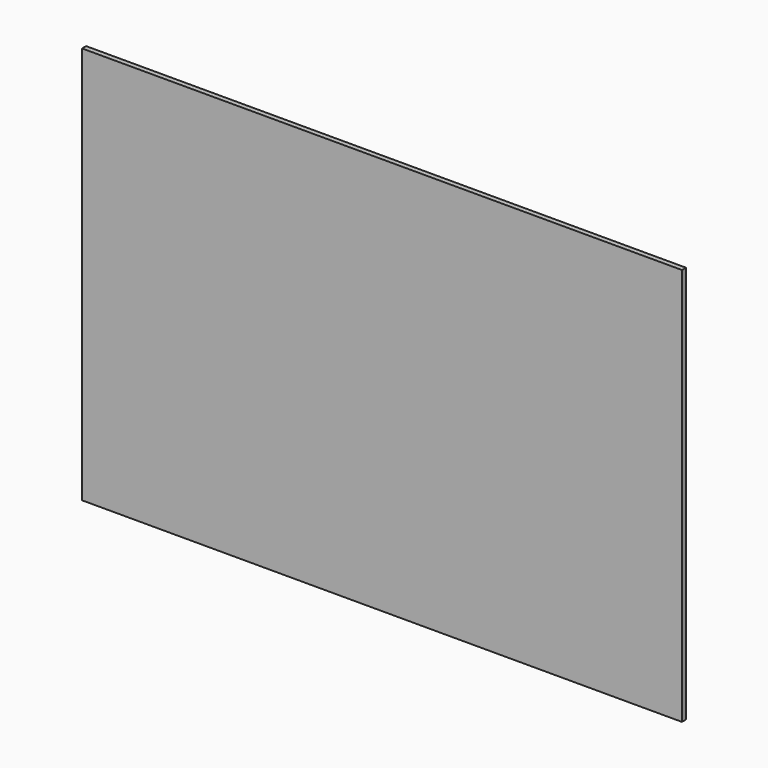
from build123d import *

# Parameters (mm, degrees)
SKETCH_W  = 475
SKETCH_H  = 315
PAD_DEPTH = 4


with BuildPart() as part:
    # Sketch → Pad (new body)
    with BuildSketch(Plane.XZ):
        with Locations((-237.5, 157.5)):
            Rectangle(SKETCH_W, SKETCH_H)
    extrude(amount=PAD_DEPTH)


solid = part.part
